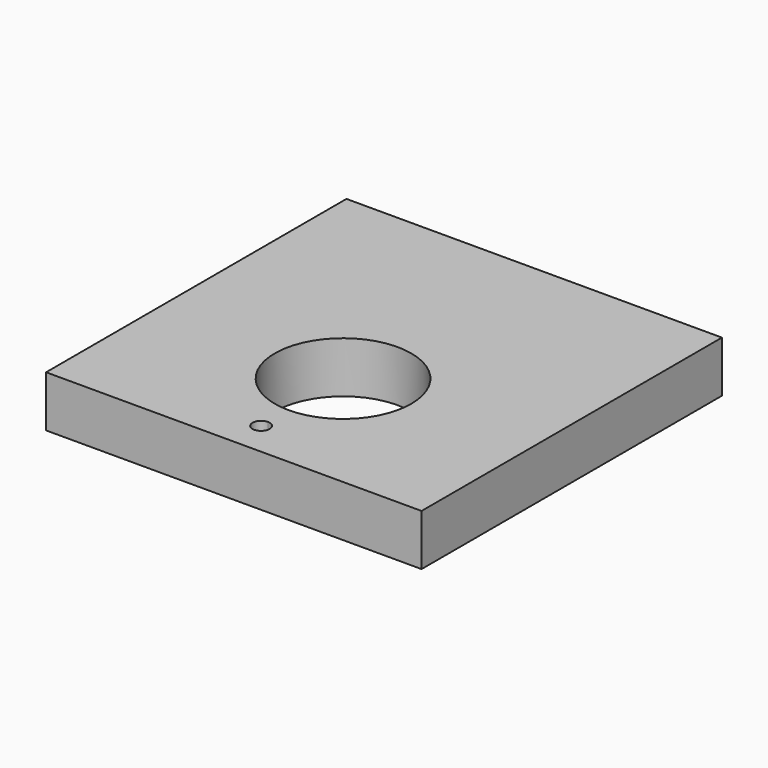
from build123d import *

# Parameters (mm, degrees)
F1_DEPTH = 19.05


with BuildPart() as f1:
    # F0 (on Top) → F1 (new body)
    with BuildSketch(Plane.XY):
        with BuildLine():
            ThreePointArc((25.4, -19.303111), (-17.960512, -1.342599), (0, -44.703111))
            ThreePointArc((0, -44.703111), (17.960512, -37.263624), (25.4, -19.303111))
        make_face()
        Polygon((-69.85, 69.596889), (-69.85, -70.103111), (0, -70.103111), (69.85, -70.103111), (69.85, 69.596889), align=None)
        with BuildLine():
            ThreePointArc((3.175, -57.403111), (2.245064, -59.648175), (0, -60.578111))
            ThreePointArc((0, -60.578111), (-3.175, -57.403111), (0, -54.228111))
            ThreePointArc((0, -54.228111), (2.245064, -55.158047), (3.175, -57.403111))
        make_face(mode=Mode.SUBTRACT)
        with BuildLine():
            ThreePointArc((25.4, -19.303111), (17.960512, -37.263624), (0, -44.703111))
            ThreePointArc((0, -44.703111), (-17.960512, -1.342599), (25.4, -19.303111))
        make_face(mode=Mode.SUBTRACT)
    extrude(amount=F1_DEPTH)


solid = f1.part
